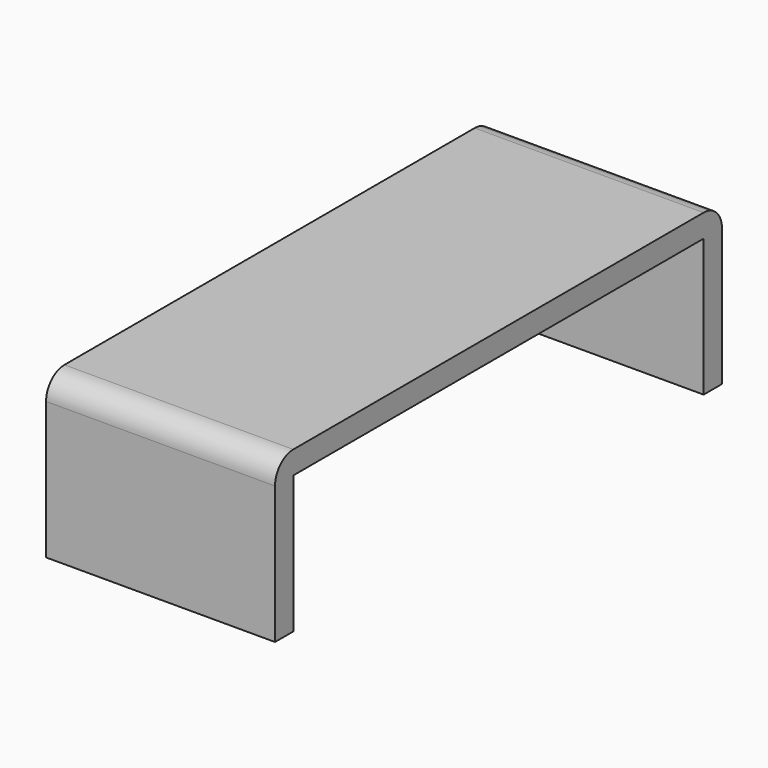
from build123d import *

# Parameters (mm, degrees)
F0_W     = 78.2169550657
F0_H     = 84.6516340971
F1_DEPTH = 8.89
F2_DEPTH = 53.66258
F3_DEPTH = 65.51676
F4_T     = -1.27
F5_DEPTH = 25.4
F6_DEPTH = 25.4
F7_R     = 1.27


with BuildPart() as f1:
    # F0 (on Top) → F1 (new body)
    with BuildSketch(Plane.XY):
        with Locations((-39.1084775329, 34.8306708038)):
            Rectangle(F0_W, F0_H)
    extrude(amount=F1_DEPTH)

    # F2 (cut): a face of the model
    f2_faces = [f1.faces().sort_by_distance(p)[0] for p in [
        (-39.1084775329, -7.4951462448, 4.445),
    ]]
    extrude(f2_faces, amount=-F2_DEPTH, mode=Mode.SUBTRACT)

    # F3 (cut): a face of the model
    f3_faces = [f1.faces().sort_by_distance(p)[0] for p in [
        (0, 61.6619608038, 4.445),
    ]]
    extrude(f3_faces, amount=-F3_DEPTH, mode=Mode.SUBTRACT)

    # F4
    f4_openings = [f1.faces().sort_by_distance(p)[0] for p in [
        (-65.51676, 61.661961, 4.445),
    ]]
    offset(amount=F4_T, openings=f4_openings)

    # F5 (cut): a face of the model
    f5_faces = [f1.faces().sort_by_distance(p)[0] for p in [
        (-71.2318575329, 61.6619608038, 1.27),
    ]]
    extrude(f5_faces, amount=-F5_DEPTH, mode=Mode.SUBTRACT)

    # F6 (cut): a face of the model
    f6_faces = [f1.faces().sort_by_distance(p)[0] for p in [
        (-76.9469550657, 61.6619608038, 3.81),
    ]]
    extrude(f6_faces, amount=-F6_DEPTH, mode=Mode.SUBTRACT)

    # F7
    f7_edges = [f1.edges().sort_by_distance(p)[0] for p in [
        (-71.866858, 46.167434, 8.89),
        (-71.866858, 77.156488, 8.89),
    ]]
    fillet(f7_edges, radius=F7_R)


solid = f1.part
